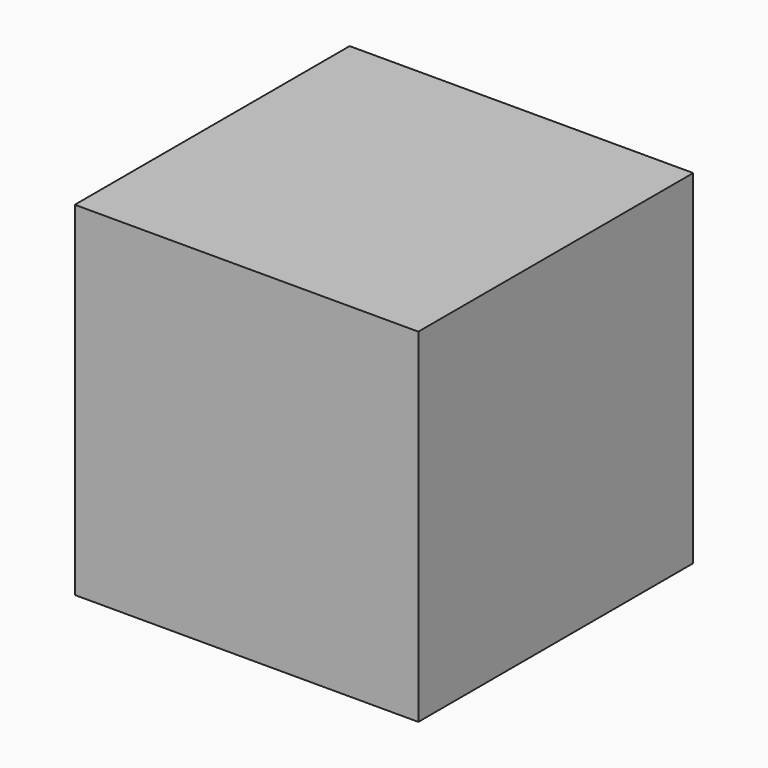
from build123d import *

# Parameters (mm, degrees)
BOX_W     = 1000
BOX_H     = 1000
BOX_DEPTH = 1000


with BuildPart() as part:
    # Box → Box (new body)
    with BuildSketch(Plane.XY):
        with Locations((500, 500)):
            Rectangle(BOX_W, BOX_H)
    extrude(amount=BOX_DEPTH)


solid = part.part
